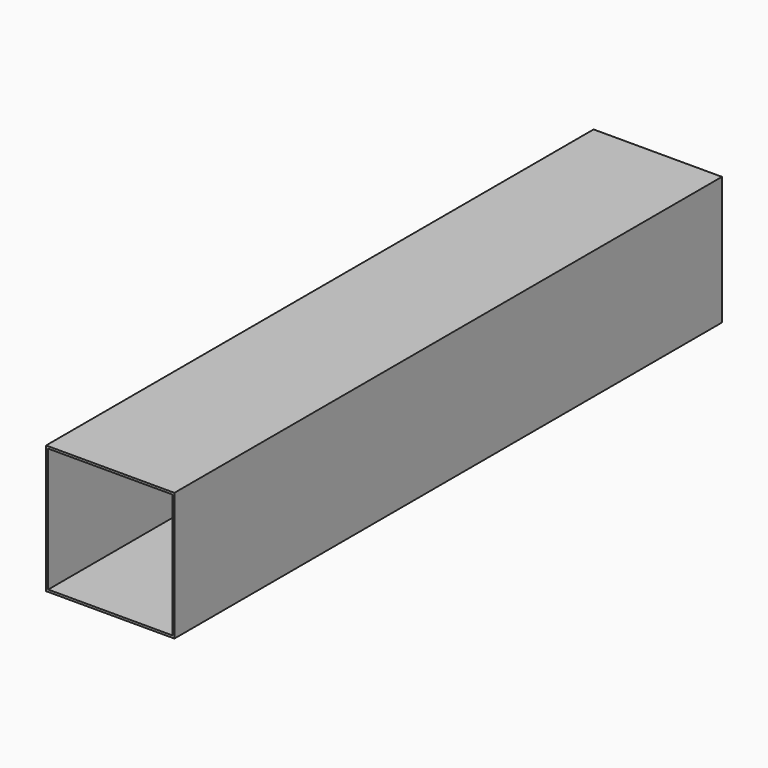
from build123d import *

# Parameters (mm, degrees)
F0_W     = 76.2
F0_H     = 76.2
F1_DEPTH = 609.6
F3_DEPTH = 914.4
F4_DEPTH = 304.8
F5_DEPTH = 508


with BuildPart() as f1:
    # F0 (on Front) → F1 (new body)
    with BuildSketch(Plane.XZ):
        with Locations((-79.1539917648, 51.4746750653)):
            Rectangle(F0_W, F0_H)
    extrude(amount=F1_DEPTH)

    # F2 (on face) → F3 (cut)
    with BuildSketch(Plane.XZ.offset(609.6)):
        Polygon((-42.3204526305, 88.3055701852), (-98.6881405115, 88.3055701852), (-115.9909814596, 88.3055701852), (-115.9909814596, 14.655277133), (-42.3204526305, 14.655277133), align=None)
    extrude(amount=-F3_DEPTH, mode=Mode.SUBTRACT)

    # F4 (add): a face of the model
    f4_faces = [f1.faces().sort_by_distance(p)[0] for p in [
        (-42.1316224993, -609.6, 51.4746750653),
    ]]
    extrude(f4_faces, amount=F4_DEPTH)

    # F5 (cut): a face of the model
    f5_faces = [f1.faces().sort_by_distance(p)[0] for p in [
        (-42.1316224993, 0, 51.4746750653),
    ]]
    extrude(f5_faces, amount=-F5_DEPTH, mode=Mode.SUBTRACT)


solid = f1.part
